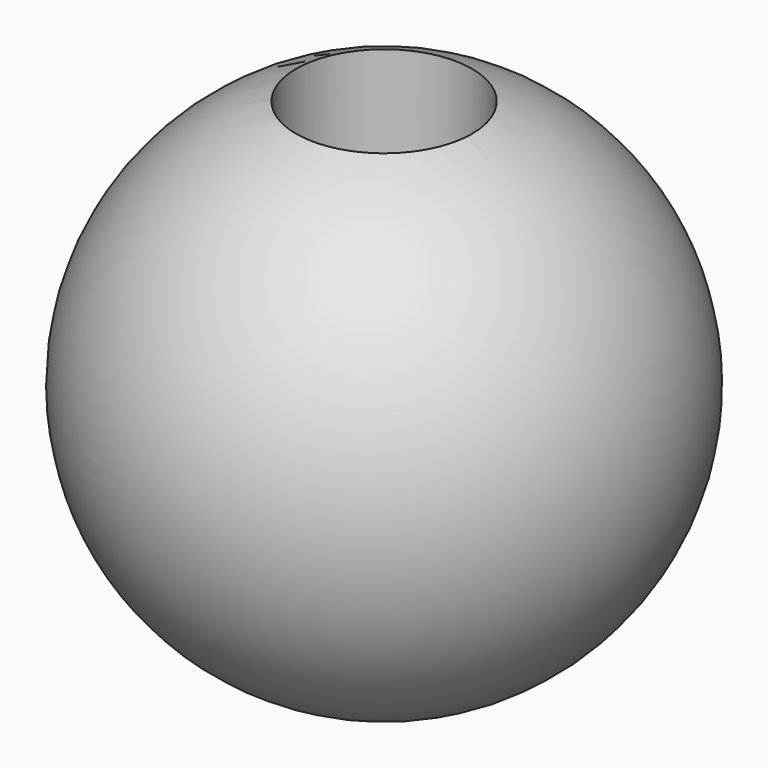
from build123d import *

# Parameters (mm, degrees)
F4_R     = 3.175
F5_DEPTH = 50.8


with BuildPart() as f2:
    # F1 (on Top) → F2 (revolve)
    with BuildSketch(Plane.XY):
        with BuildLine():
            Line((0, -9.525), (0, 9.525))
            ThreePointArc((0, 9.525), (-9.525, 0), (0, -9.525))
        make_face()
    revolve(axis=Axis((0, 0, 0), (0, -1, 0)))

    # F4 (on offset) → F5 (cut)
    with BuildSketch(Plane.XY.offset(1.27)):
        Circle(F4_R)
    extrude(amount=F5_DEPTH, mode=Mode.SUBTRACT)


solid = f2.part
